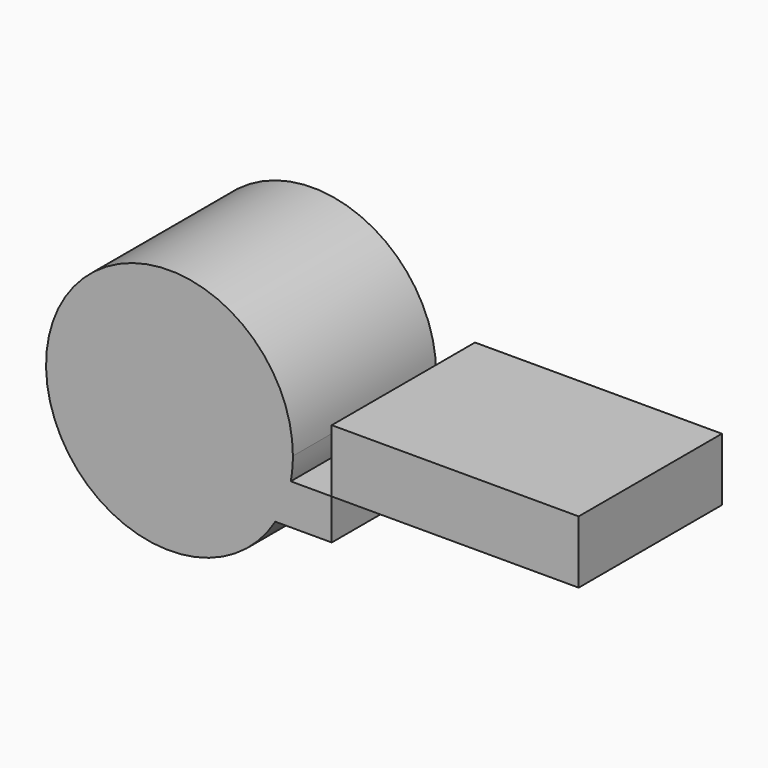
from build123d import *

# Parameters (mm, degrees)
F1_DEPTH = 25.4
F0_W     = 35.0273856893
F0_H     = 8.9033269323


with BuildPart() as f1:
    # F0 (on Front) → F1 (new body)
    with BuildSketch(Plane.XZ):
        with BuildLine():
            ThreePointArc((2.1903926758, 5.7508633472), (2.4197734011, 7.3733881804), (2.4964575555, 9.0102516115))
            ThreePointArc((2.4964575555, 9.0102516115), (-31.8842802432, 13.685102797), (0, 0))
            Line((0, 0), (-3.0023471918, 0))
            Line((-3.0023471918, 0), (-3.0023471918, 5.7508633472))
            Line((-3.0023471918, 5.7508633472), (2.1903926758, 5.7508633472))
        make_face()
        with BuildLine():
            ThreePointArc((2.1903926758, 5.7508633472), (1.3498463074, 2.778440423), (0, 0))
            Line((0, 0), (8.0062588677, 0))
            Line((8.0062588677, 0), (8.0062588677, 5.7508633472))
            Line((8.0062588677, 5.7508633472), (2.1903926758, 5.7508633472))
        make_face()
        with BuildLine():
            Line((-3.0023471918, 0), (0, 0))
            ThreePointArc((0, 0), (1.3498463074, 2.778440423), (2.1903926758, 5.7508633472))
            Line((2.1903926758, 5.7508633472), (-3.0023471918, 5.7508633472))
            Line((-3.0023471918, 5.7508633472), (-3.0023471918, 0))
        make_face()
    extrude(amount=F1_DEPTH)


with BuildPart() as f1b:
    # F0 (on Front) → F1, piece 2 (new body)
    with BuildSketch(Plane.XZ):
        with Locations((25.5199517123, 10.2025268134)):
            Rectangle(F0_W, F0_H)
    extrude(amount=F1_DEPTH)


solid = Compound([f1.part, f1b.part])
